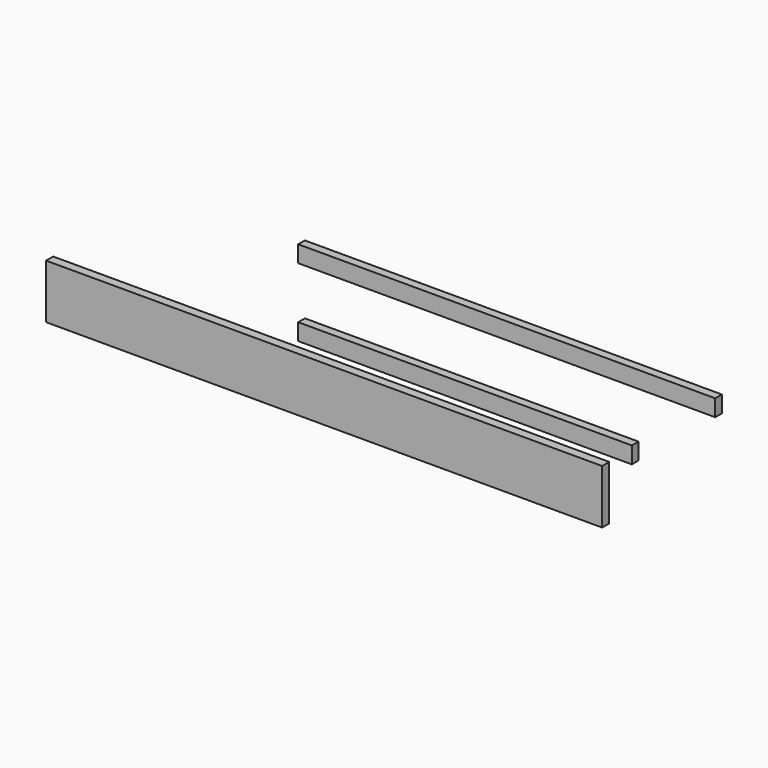
from build123d import *

# Parameters (mm, degrees)
F0_W     = 300
F0_H     = 60
F0_W_2   = 1200
F1_DEPTH = 30
F2_W     = 1200
F2_H     = 60
F3_DEPTH = 30
F4_W     = 2000
F4_H     = 195
F5_DEPTH = 32


with BuildPart() as f1:
    # F0 (on Front) → F1 (new body)
    with BuildSketch(Plane.XZ):
        with Locations((150, 33.377474)):
            Rectangle(F0_W, F0_H)
        with Locations((900, 33.377474)):
            Rectangle(F0_W_2, F0_H)
    extrude(amount=F1_DEPTH)


with BuildPart() as f3:
    # F2 (on Front) → F3 (new body)
    with BuildSketch(Plane.XZ):
        with Locations((600, -213.39214)):
            Rectangle(F2_W, F2_H)
    extrude(amount=F3_DEPTH)


with BuildPart() as f5:
    # F4 (on Front) → F5 (new body)
    with BuildSketch(Plane.XZ):
        with Locations((94.689369, -379.461702)):
            Rectangle(F4_W, F4_H)
    extrude(amount=F5_DEPTH)


solid = Compound([f1.part, f3.part, f5.part])
